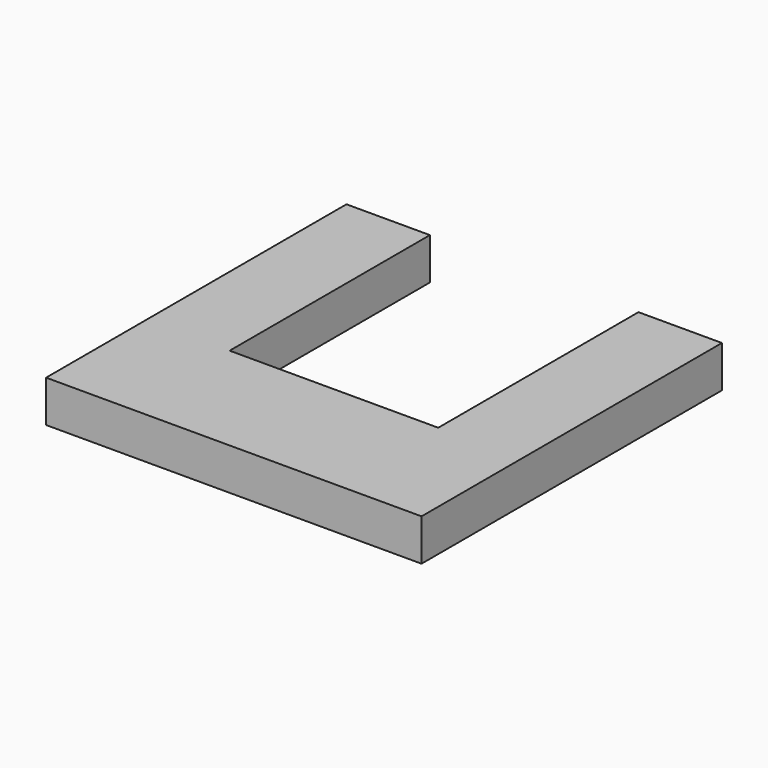
from build123d import *

# Parameters (mm, degrees)
F0_W     = 50
F0_H     = 30
F1_DEPTH = 10


with BuildPart() as f1:
    # F0 (on Top) → F1 (new body)
    with BuildSketch(Plane.XY):
        Rectangle(F0_W, F0_H)
        Polygon((-25, -15), (-25, 15), (-25, 75), (-45, 75), (-45, -15), align=None)
        Polygon((25, 75), (25, 15), (25, -15), (45, -15), (45, 75), align=None)
    extrude(amount=F1_DEPTH)


solid = f1.part
